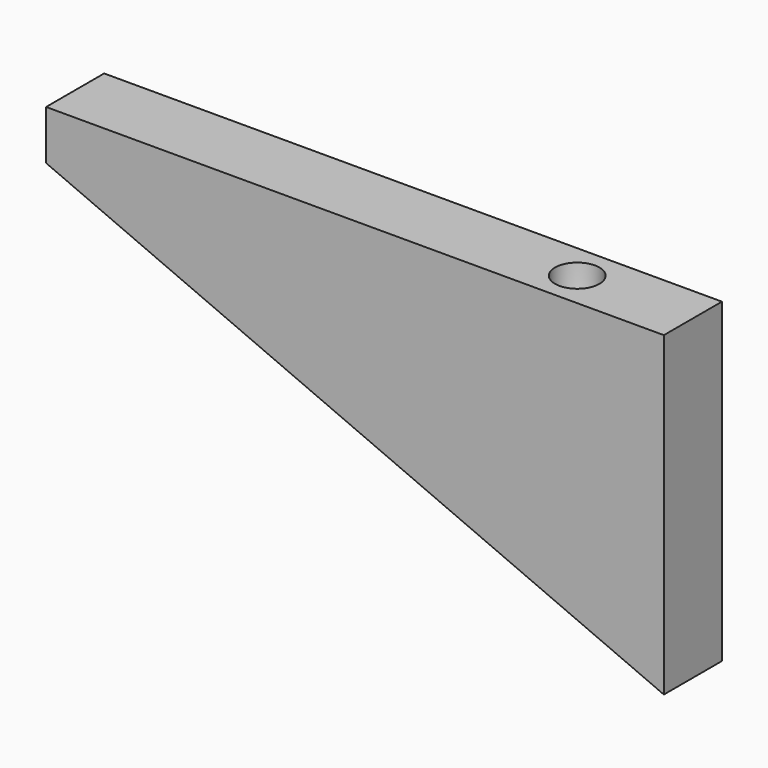
from build123d import *

# Parameters (mm, degrees)
F1_DEPTH = 25
F2_R     = 7.6427877467
F3_ANGLE = 45


with BuildPart() as f1:
    # F0 (on Front) → F1 (new body)
    with BuildSketch(Plane.XZ):
        Polygon((114.3422499299, 52.5322444737), (-98.4026417136, 52.5322444737), (-98.4026417136, 35.5293569025), (114.3422499299, -56.4332574811), align=None)
    extrude(amount=F1_DEPTH)

    # F2 (on face) → F3 (revolve, cut)
    with BuildSketch(Plane.XY.offset(52.5322444737)):
        with Locations((74.5106562972, -12.5)):
            Circle(F2_R)
    revolve(axis=Axis((114.3422499299, -12.5, 52.5322444737), (0, -1, 0)), revolution_arc=F3_ANGLE, mode=Mode.SUBTRACT)


solid = f1.part
